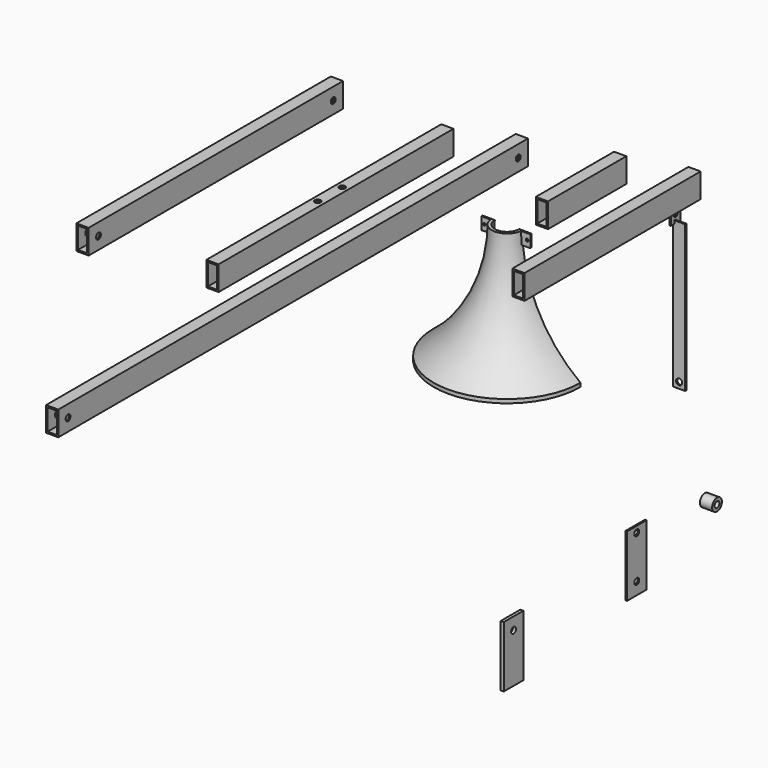
from build123d import *

# Parameters (mm, degrees)
F0_W      = 25.4
F0_H      = 50.8
F0_W_2    = 19.05
F0_H_2    = 44.45
F1_DEPTH  = 609.6
F2_W      = 25.4
F2_H      = 50.8
F2_W_2    = 19.05
F2_H_2    = 44.45
F3_DEPTH  = 660.4
F4_W      = 25.4
F4_H      = 50.8
F4_W_2    = 19.05
F4_H_2    = 44.45
F5_DEPTH  = 1219.2
F6_R      = 6.35
F7_DEPTH  = 50.8
F8_W      = 50.8
F8_H      = 127
F8_R      = 6.35
F9_DEPTH  = 6.35
F10_R     = 6.35
F11_DEPTH = 50.8
F12_W     = 25.4
F12_H     = 50.8
F12_W_2   = 19.05
F12_H_2   = 44.45
F13_DEPTH = 203.2
F14_W     = 25.4
F14_H     = 50.8
F14_W_2   = 19.05
F14_H_2   = 44.45
F15_DEPTH = 457.2
F16_R     = 6.35
F17_DEPTH = 38.1
F18_W     = 50.8
F18_H     = 127
F18_R     = 6.35
F19_DEPTH = 3.175
F20_R     = 12.7
F20_R_2   = 6.35
F21_DEPTH = 25.4
F23_ANGLE = 180
F24_R     = 2.633638492
F24_R_2   = 2.9465477652
F25_DEPTH = 3.175
F26_W     = 25.4
F26_H     = 304.8
F26_R     = 6.35
F27_DEPTH = 3.175
F28_W     = 3.175
F28_H     = 25.4
F29_DEPTH = 12.7
F30_R     = 4.6531365649
F31_DEPTH = 25.4


with BuildPart() as f1:
    # F0 (on Front) → F1 (new body)
    with BuildSketch(Plane.XZ):
        with Locations((-938.133935833, 260.2320292473)):
            Rectangle(F0_W, F0_H)
        with Locations((-938.133935833, 260.2320292473)):
            Rectangle(F0_W_2, F0_H_2, mode=Mode.SUBTRACT)
    extrude(amount=F1_DEPTH)

    # F10 (on face) → F11 (cut)
    with BuildSketch(Plane.XY.offset(285.6320292473)):
        with Locations((-938.133935833, -273.05)):
            Circle(F10_R)
        with Locations((-938.133935833, -336.55)):
            Circle(F10_R)
    extrude(amount=-F11_DEPTH, mode=Mode.SUBTRACT)


with BuildPart() as f3:
    # F2 (on Front) → F3 (new body)
    with BuildSketch(Plane.XZ):
        with Locations((-1167.4313545227, 273.0290293694)):
            Rectangle(F2_W, F2_H)
        with Locations((-1167.4313545227, 273.0290293694)):
            Rectangle(F2_W_2, F2_H_2, mode=Mode.SUBTRACT)
    extrude(amount=F3_DEPTH)

    # F16 (on face) → F17 (cut)
    with BuildSketch(Plane(origin=(-1180.1313545227, 0, 0), x_dir=(0, -1, 0), z_dir=(-1, 0, 0))):
        with Locations((635, 273.0290293694)):
            Circle(F16_R)
        with Locations((25.4, 273.0290293694)):
            Circle(F16_R)
    extrude(amount=-F17_DEPTH, mode=Mode.SUBTRACT)


with BuildPart() as f5:
    # F4 (on Front) → F5 (new body)
    with BuildSketch(Plane.XZ):
        with Locations((-783.3963632584, 292.8439676762)):
            Rectangle(F4_W, F4_H)
        with Locations((-783.3963632584, 292.8439676762)):
            Rectangle(F4_W_2, F4_H_2, mode=Mode.SUBTRACT)
    extrude(amount=F5_DEPTH)

    # F6 (on face) → F7 (cut)
    with BuildSketch(Plane.YZ.offset(-770.6963632584)):
        with Locations((-1193.8, 292.8439676762)):
            Circle(F6_R)
        with Locations((-25.4, 292.8439676762)):
            Circle(F6_R)
    extrude(amount=-F7_DEPTH, mode=Mode.SUBTRACT)


with BuildPart() as f9:
    # F8 (on Right) → F9 (new body)
    with BuildSketch(Plane.YZ):
        with Locations((-1008.7970920563, 43.7184645087)):
            Rectangle(F8_W, F8_H)
        with Locations((-1008.7970920563, 81.8184645087)):
            Circle(F8_R, mode=Mode.SUBTRACT)
    extrude(amount=F9_DEPTH)


with BuildPart() as f13:
    # F12 (on Front) → F13 (new body)
    with BuildSketch(Plane.XZ):
        with Locations((-579.2496204376, 326.7840445042)):
            Rectangle(F12_W, F12_H)
        with Locations((-579.2496204376, 326.7840445042)):
            Rectangle(F12_W_2, F12_H_2, mode=Mode.SUBTRACT)
    extrude(amount=F13_DEPTH)


with BuildPart() as f15:
    # F14 (on Front) → F15 (new body)
    with BuildSketch(Plane.XZ):
        with Locations((-424.8523116112, 349.171102047)):
            Rectangle(F14_W, F14_H)
        with Locations((-424.8523116112, 349.171102047)):
            Rectangle(F14_W_2, F14_H_2, mode=Mode.SUBTRACT)
    extrude(amount=F15_DEPTH)


with BuildPart() as f19:
    # F18 (on Right) → F19 (new body)
    with BuildSketch(Plane.YZ):
        with Locations((-684.9140524864, 76.6871474198)):
            Rectangle(F18_W, F18_H)
        with Locations((-684.9140524864, 38.5871474198)):
            Circle(F18_R, mode=Mode.SUBTRACT)
        with Locations((-684.9140524864, 127.4871474198)):
            Circle(F18_R, mode=Mode.SUBTRACT)
    extrude(amount=F19_DEPTH)


with BuildPart() as f21:
    # F20 (on Right) → F21 (new body)
    with BuildSketch(Plane.YZ):
        with Locations((-504.409968853, 112.8451302648)):
            Circle(F20_R)
        with Locations((-504.409968853, 112.8451302648)):
            Circle(F20_R_2, mode=Mode.SUBTRACT)
    extrude(amount=F21_DEPTH)


with BuildPart() as f23:
    # F22 (on Front) → F23 (revolve)
    with BuildSketch(Plane.XZ):
        with BuildLine():
            Line((-782.4417822541, 146.6927153502), (-788.7917822541, 146.6927153502))
            ThreePointArc((-788.7917822541, 146.6927153502), (-755.1895698557, 7.5711857439), (-661.7917822541, -100.8758610079))
            Line((-661.7917822541, -100.8758610079), (-661.7917822541, -93.0145279696))
            ThreePointArc((-661.7917822541, -93.0145279696), (-750.578365281, 12.5137443823), (-782.4417822541, 146.6927153502))
        make_face()
    revolve(axis=Axis((-814.1917822541, 0, 175.9082044236), (0, 0, -1)), revolution_arc=F23_ANGLE)

    # F24 (on face) → F25 (join)
    with BuildSketch(Plane(origin=(0, 0, 0), x_dir=(-1, 0, 0), z_dir=(0, 1, 0))):
        with BuildLine():
            Line((864.9917822541, 121.2927153502), (864.9917822541, 146.6927153502))
            Line((864.9917822541, 146.6927153502), (839.5917822541, 146.6927153502))
            ThreePointArc((839.5917822541, 146.6927153502), (839.8569418727, 133.9816574129), (840.6519593793, 121.2927153502))
            Line((840.6519593793, 121.2927153502), (864.9917822541, 121.2927153502))
        make_face()
        with Locations((858.6417822541, 133.9927153502)):
            Circle(F24_R, mode=Mode.SUBTRACT)
        with BuildLine():
            Line((782.4417822541, 146.6927153502), (763.3917822541, 146.6927153502))
            Line((763.3917822541, 146.6927153502), (763.3917822541, 121.2927153502))
            Line((763.3917822541, 121.2927153502), (781.3589668928, 121.2927153502))
            ThreePointArc((781.3589668928, 121.2927153502), (782.1709555337, 133.9811803415), (782.4417822541, 146.6927153502))
        make_face()
        with Locations((769.7417822541, 133.9927153502)):
            Circle(F24_R_2, mode=Mode.SUBTRACT)
        with BuildLine():
            Line((788.7917822541, 146.6927153502), (782.4417822541, 146.6927153502))
            ThreePointArc((782.4417822541, 146.6927153502), (782.1709555337, 133.9811803415), (781.3589668928, 121.2927153502))
            Line((781.3589668928, 121.2927153502), (787.7316051288, 121.2927153502))
            ThreePointArc((787.7316051288, 121.2927153502), (788.5266226354, 133.9816574129), (788.7917822541, 146.6927153502))
        make_face()
    extrude(amount=-F25_DEPTH)


with BuildPart() as f27:
    # F26 (on Front) → F27 (new body)
    with BuildSketch(Plane.XZ):
        with Locations((-454.4087574686, 117.0952590182)):
            Rectangle(F26_W, F26_H)
        with Locations((-454.4087574686, -22.6047409818)):
            Circle(F26_R, mode=Mode.SUBTRACT)
    extrude(amount=F27_DEPTH)

    # F28 (on face) → F29 (join, symmetric)
    with BuildSketch(Plane(origin=(0, 0, 0), x_dir=(-1, 0, 0), z_dir=(0, 1, 0))):
        with Locations((465.5212574686, 275.8452590182)):
            Rectangle(F28_W, F28_H)
    extrude(amount=F29_DEPTH, both=True)

    # F30 (on face) → F31 (cut)
    with BuildSketch(Plane.YZ.offset(-463.9337574686)):
        with Locations((0, 279.0202590182)):
            Circle(F30_R)
    extrude(amount=-F31_DEPTH, mode=Mode.SUBTRACT)


solid = Compound([f1.part, f3.part, f5.part, f9.part, f13.part, f15.part, f19.part, f21.part, f23.part, f27.part])
